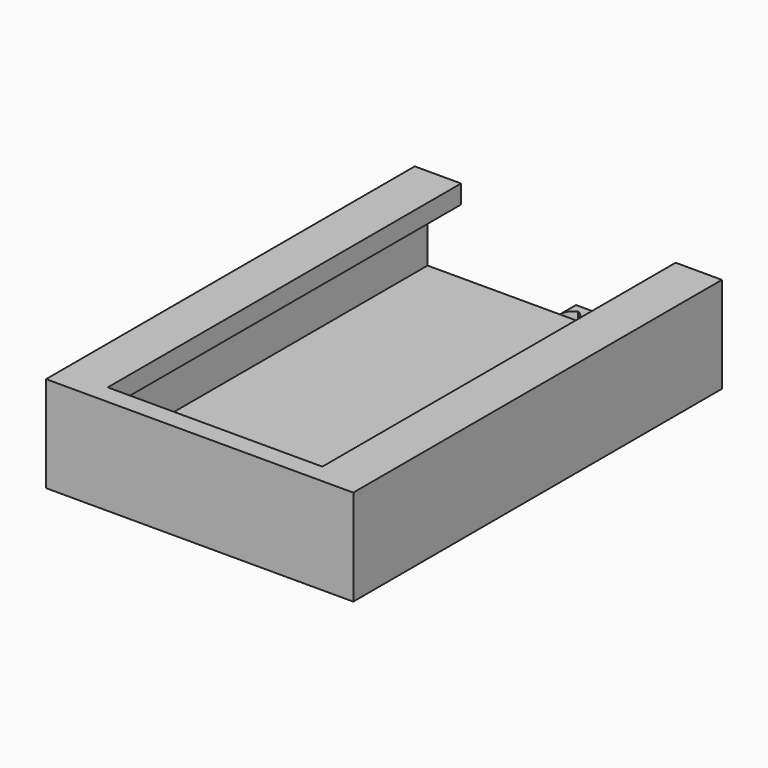
from build123d import *

# Parameters (mm, degrees)
F0_W     = 80
F0_H     = 120
F1_DEPTH = 25
F3_DEPTH = 115
F5_DEPTH = 3.4


with BuildPart() as f1:
    # F0 (on Top) → F1 (new body)
    with BuildSketch(Plane.XY):
        Rectangle(F0_W, F0_H)
    extrude(amount=F1_DEPTH)

    # F2 (on face) → F3 (cut)
    with BuildSketch(Plane(origin=(0, 60, 0), x_dir=(-1, 0, 0), z_dir=(0, 1, 0))):
        Polygon((0, 3.35), (36.65, 3.35), (36.65, 20.161638), (27.940527, 20.161638), (27.940527, 25), (0, 25), (-27.940527, 25), (-27.940527, 20.161638), (-36.65, 20.161638), (-36.65, 3.35), align=None)
    extrude(amount=-F3_DEPTH, mode=Mode.SUBTRACT)


with BuildPart() as f5:
    # F4 (on face) → F5 (new body)
    with BuildSketch(Plane.XY):
        with BuildLine():
            ThreePointArc((0, 63.221723), (1.566703, 61.940476), (2.155321, 60.004067))
            Line((2.155321, 60.004067), (2.155321, 65.192647))
            Line((2.155321, 65.192647), (0, 65.192647))
            Line((0, 65.192647), (-2.155321, 65.192647))
            Line((-2.155321, 65.192647), (-2.155321, 60.004067))
            ThreePointArc((-2.155321, 60.004067), (-1.566703, 61.940476), (0, 63.221723))
        make_face()
    extrude(amount=F5_DEPTH)


solid = Compound([f1.part, f5.part])
